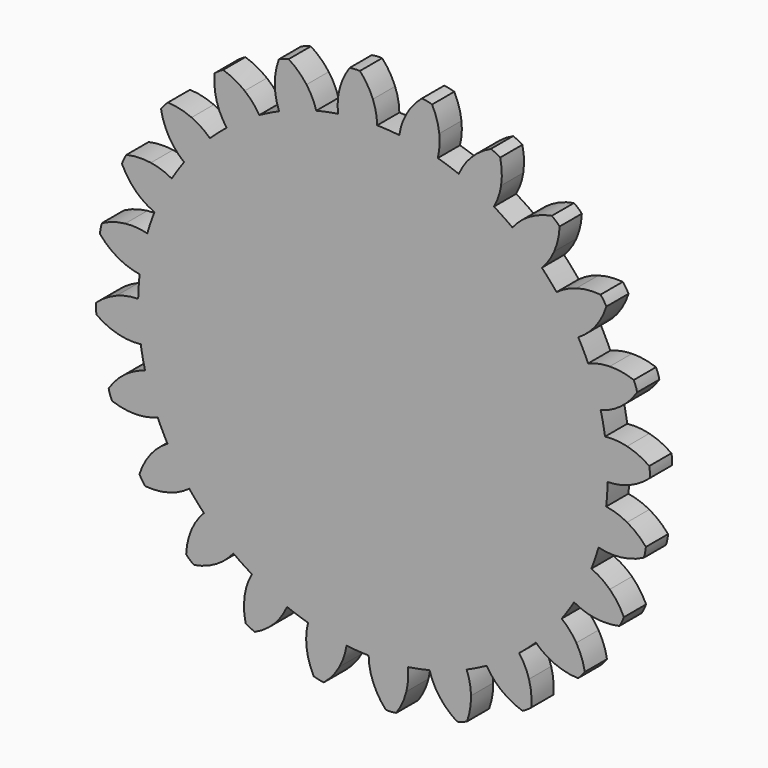
from build123d import *

# Parameters (mm, degrees)
F1_DEPTH = 6.35
F2_COUNT = 24
F2_ANGLE = 345


with BuildPart() as f1:
    # F0 (on Front) → F1 (new body)
    with BuildSketch(Plane.XZ):
        with BuildLine():
            ThreePointArc((-7.9757188017, 53.1256411782), (-35.0534039093, -40.7087793402), (53.721, 0))
            ThreePointArc((53.721, 0), (38.329016413, 37.6408334368), (0.9731977694, 53.7121841587))
            ThreePointArc((0.9731977694, 53.7121841587), (-3.5135215054, 53.6059792153), (-7.9757188017, 53.1256411782))
        make_face()
        with BuildLine():
            ThreePointArc((-7.9757188017, 53.1256411782), (-3.5135215054, 53.6059792153), (0.9731977694, 53.7121841587))
            ThreePointArc((0.9731977694, 53.7121841587), (0.7117858943, 56.237259679), (0, 58.674))
            ThreePointArc((0, 58.674), (-1.2626066091, 61.1746276832), (-2.9652251396, 63.3991286159))
            ThreePointArc((-2.9652251396, 63.3991286159), (-4.1543562361, 63.383227825), (-5.3353896208, 63.2437798283))
            ThreePointArc((-5.3353896208, 63.2437798283), (-6.7330863774, 60.816073496), (-7.6584938023, 58.1720357962))
            ThreePointArc((-7.6584938023, 58.1720357962), (-8.0461318341, 55.663235424), (-7.9757188017, 53.1256411782))
        make_face()
    extrude(amount=F1_DEPTH)

    # F2: F1 ×24 about axis
    f2_axis = Axis((0, -6.35, 0), (0, -1, 0))


with BuildPart() as f1_1:
    add(f1.part)
    for i in range(1, F2_COUNT):
        add(f1.part.rotate(f2_axis, i * F2_ANGLE / (F2_COUNT - 1)))


solid = f1_1.part
